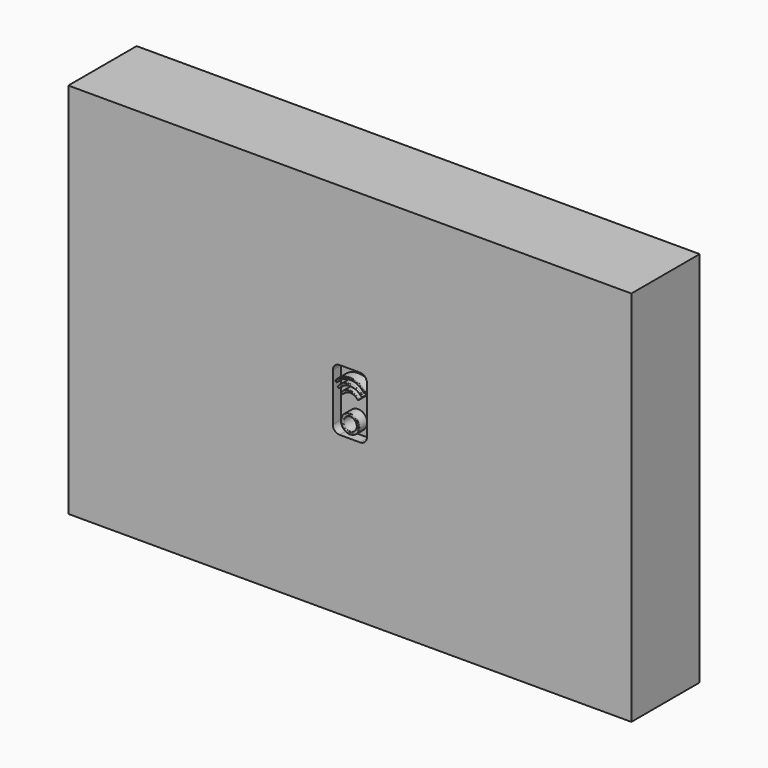
from build123d import *

# Parameters (mm, degrees)
F0_W     = 164.8570299149
F0_H     = 110.4289069772
F1_DEPTH = 25
F2_W     = 10
F2_H     = 18
F2_R     = 2.7001764227
F2_R_2   = 1.9341682987
F3_DEPTH = 3
F4_DEPTH = 25
F5_R     = 2
F6_R     = 0.2
F7_R     = 0.2


with BuildPart() as f1:
    # F0 (on Front) → F1 (new body)
    with BuildSketch(Plane.XZ):
        Rectangle(F0_W, F0_H)
    extrude(amount=F1_DEPTH)

    # F2 (on face) → F3 (cut)
    with BuildSketch(Plane.XZ.offset(25)):
        Rectangle(F2_W, F2_H)
        with Locations((0, -5.2800131962)):
            Circle(F2_R, mode=Mode.SUBTRACT)
        with BuildLine():
            ThreePointArc((2.2602898534, 1.5537198633), (0.023716197, 2.7426981564), (-2.2330837499, 1.5925742058))
            Line((-2.2330837499, 1.5925742058), (-2.7215808881, 1.9409569934))
            ThreePointArc((-2.7215808881, 1.9409569934), (0.028904222, 3.3426757436), (2.7547384494, 1.8936030884))
            Line((2.7547384494, 1.8936030884), (2.2602898534, 1.5537198633))
        make_face(mode=Mode.SUBTRACT)
        with BuildLine():
            ThreePointArc((3.3802715561, 2.6244919898), (0.092503517, 4.4323042668), (-3.2741558808, 2.7760408799))
            Line((-3.2741558808, 2.7760408799), (-3.7576841163, 3.1312879295))
            ThreePointArc((-3.7576841163, 3.1312879295), (0.1061644617, 5.0321487461), (3.8794709835, 2.9573582578))
            Line((3.8794709835, 2.9573582578), (3.3802715561, 2.6244919898))
        make_face(mode=Mode.SUBTRACT)
        with BuildLine():
            ThreePointArc((4.0547181579, 3.9081449802), (0.1143542469, 6.0784267055), (-3.923536355, 4.0954920105))
            Line((-3.923536355, 4.0954920105), (-4.4068130665, 4.4510811567))
            ThreePointArc((-4.4068130665, 4.4510811567), (0.1284396891, 6.6782613669), (4.5541530248, 4.2406578889))
            Line((4.5541530248, 4.2406578889), (4.0547181579, 3.9081449802))
        make_face(mode=Mode.SUBTRACT)
        with Locations((0, -5.2800131962)):
            Circle(F2_R_2)
    extrude(amount=-F3_DEPTH, mode=Mode.SUBTRACT)

    # F4 (cut): a face of the model
    f4_faces = [f1.faces().sort_by_distance(p)[0] for p in [
        (0, -22, -5.2800131962),
    ]]
    extrude(f4_faces, amount=-F4_DEPTH, mode=Mode.SUBTRACT)

    # F5
    f5_edges = [f1.edges().sort_by_distance(p)[0] for p in [
        (-5, -23.5, 9),
        (5, -23.5, 9),
        (5, -23.5, -9),
        (-5, -23.5, -9),
    ]]
    fillet(f5_edges, radius=F5_R)

    # F6
    f6_edges = [f1.edges().sort_by_distance(p)[0] for p in [
        (-3.923536, -23.5, 4.095492),
        (-4.406813, -23.5, 4.451081),
        (-3.757684, -23.5, 3.131288),
        (-3.274156, -23.5, 2.776041),
        (-2.721581, -23.5, 1.940957),
        (-2.233084, -23.5, 1.592574),
        (2.26029, -23.5, 1.55372),
        (2.754738, -23.5, 1.893603),
        (3.380272, -23.5, 2.624492),
        (3.879471, -23.5, 2.957358),
        (4.054718, -23.5, 3.908145),
        (2.507514, -25, 1.723661),
        (0.023716, -25, 2.742698),
        (-2.477332, -25, 1.766766),
        (0.028904, -25, 3.342676),
        (3.629871, -25, 2.790925),
        (0.092504, -25, 4.432304),
        (-3.51592, -25, 2.953664),
        (0.106164, -25, 5.032149),
        (0.114354, -25, 6.078427),
        (-4.165175, -25, 4.273287),
        (0.12844, -25, 6.678261),
        (4.304436, -25, 4.074401),
    ]]
    fillet(f6_edges, radius=F6_R)

    # F7
    f7_edges = [f1.edges().sort_by_distance(p)[0] for p in [
        (-2.700176, -25, -5.280013),
        (-1.934168, -25, -5.280013),
    ]]
    fillet(f7_edges, radius=F7_R)


solid = f1.part
